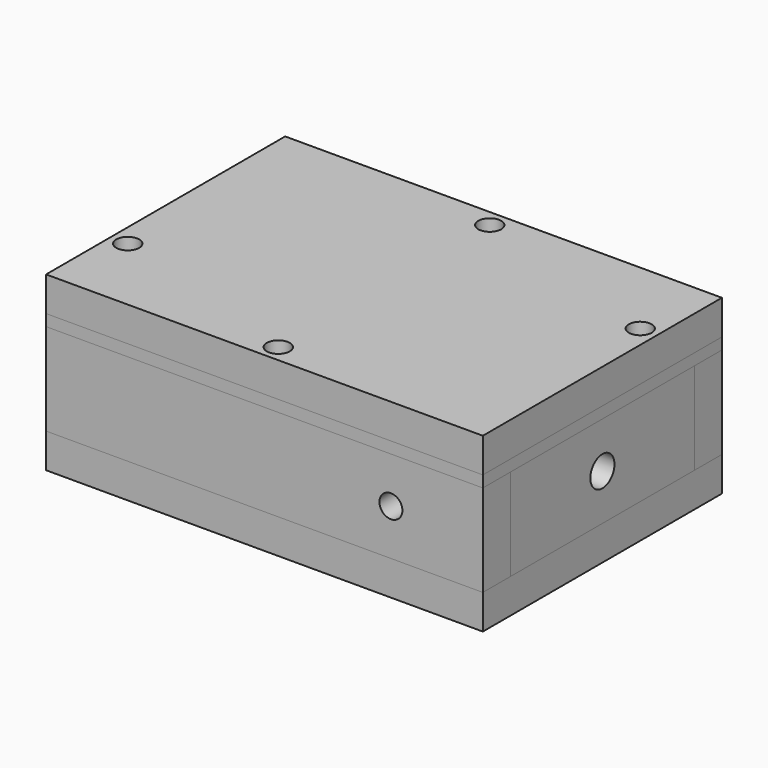
from build123d import *

# Parameters (mm, degrees)
F10_W     = 120.65
F10_H     = 82.55
F11_DEPTH = 9.525
F6_W      = 63.5
F6_H      = 25.4
F6_R      = 4.1671875
F12_DEPTH = 9.525
F8_W      = 120.65
F8_H      = 25.4
F8_R      = 3.175
F14_DEPTH = 9.525
F16_W     = 120.65
F16_H     = 82.55
F16_R     = 3.175
F17_DEPTH = 3.175
F19_DEPTH = 1.5875
F20_W     = 120.65
F20_H     = 82.55
F20_R     = 3.175
F21_DEPTH = 9.525
F22_R     = 3.175
F23_DEPTH = 19.05
F24_R     = 3.175
F25_DEPTH = 19.05
F26_R     = 3.175
F27_DEPTH = 19.05
F28_R     = 3.175
F29_DEPTH = 19.05


with BuildPart() as f11:
    # F10 (on offset) → F11 (new body)
    with BuildSketch(Plane.XY.offset(-12.7)):
        Rectangle(F10_W, F10_H)
    extrude(amount=-F11_DEPTH)


with BuildPart() as f12:
    # F6 (on offset) → F12 (new body)
    with BuildSketch(Plane.YZ.offset(-50.8)):
        Rectangle(F6_W, F6_H)
        Circle(F6_R, mode=Mode.SUBTRACT)
    extrude(amount=-F12_DEPTH)


with BuildPart() as f13_1:
    # F13: instance of F12
    add(f12.part.mirror(Plane.YZ))

    # F26 (on offset) → F27 (cut)
    with BuildSketch(Plane.XY.offset(12.7)):
        with Locations((55.5498, 19.05)):
            Circle(F26_R)
    extrude(amount=-F27_DEPTH, mode=Mode.SUBTRACT)


with BuildPart() as f14:
    # F8 (on offset) → F14 (new body)
    with BuildSketch(Plane.XZ.offset(31.75)):
        Rectangle(F8_W, F8_H)
        with Locations((34.925, 0)):
            Circle(F8_R, mode=Mode.SUBTRACT)
    extrude(amount=F14_DEPTH)


with BuildPart() as f15_1:
    # F15: instance of F14
    add(f14.part.mirror(Plane.XZ))

    # F28 (on offset) → F29 (cut)
    with BuildSketch(Plane.XY.offset(12.7)):
        with Locations((0, 36.5125)):
            Circle(F28_R)
    extrude(amount=-F29_DEPTH, mode=Mode.SUBTRACT)


with BuildPart() as f17:
    # F16 (on offset) → F17 (new body)
    with BuildSketch(Plane.XY.offset(12.7)):
        Rectangle(F16_W, F16_H)
        with Locations((-55.5498, -19.05)):
            Circle(F16_R, mode=Mode.SUBTRACT)
        with Locations((0, -36.5125)):
            Circle(F16_R, mode=Mode.SUBTRACT)
        with BuildLine():
            Line((-44.45, -19.05), (-44.45, 19.05))
            ThreePointArc((-44.45, 19.05), (-42.5901280605, 23.5401280605), (-38.1, 25.4))
            Line((-38.1, 25.4), (38.1, 25.4))
            ThreePointArc((38.1, 25.4), (42.5901280605, 23.5401280605), (44.45, 19.05))
            Line((44.45, 19.05), (44.45, -19.05))
            ThreePointArc((44.45, -19.05), (42.5901280605, -23.5401280605), (38.1, -25.4))
            Line((38.1, -25.4), (-38.1, -25.4))
            ThreePointArc((-38.1, -25.4), (-42.5901280605, -23.5401280605), (-44.45, -19.05))
        make_face(mode=Mode.SUBTRACT)
        with Locations((55.5498, 19.05)):
            Circle(F16_R, mode=Mode.SUBTRACT)
        with Locations((0, 36.5125)):
            Circle(F16_R, mode=Mode.SUBTRACT)
    extrude(amount=F17_DEPTH)

    # F18 (on offset) → F19 (cut)
    with BuildSketch(Plane.XY.offset(15.875)):
        with BuildLine():
            Line((41.275, 31.75), (-41.275, 31.75))
            ThreePointArc((-41.275, 31.75), (-48.0101920908, 28.9601920908), (-50.8, 22.225))
            Line((-50.8, 22.225), (-50.8, -22.225))
            ThreePointArc((-50.8, -22.225), (-48.0101920908, -28.9601920908), (-41.275, -31.75))
            Line((-41.275, -31.75), (41.275, -31.75))
            ThreePointArc((41.275, -31.75), (48.0101920908, -28.9601920908), (50.8, -22.225))
            Line((50.8, -22.225), (50.8, 22.225))
            ThreePointArc((50.8, 22.225), (48.0101920908, 28.9601920908), (41.275, 31.75))
        make_face()
        with BuildLine():
            ThreePointArc((-47.625, 22.225), (-45.7651280605, 26.7151280605), (-41.275, 28.575))
            Line((-41.275, 28.575), (41.275, 28.575))
            ThreePointArc((41.275, 28.575), (45.7651280605, 26.7151280605), (47.625, 22.225))
            Line((47.625, 22.225), (47.625, -22.225))
            ThreePointArc((47.625, -22.225), (45.7651280605, -26.7151280605), (41.275, -28.575))
            Line((41.275, -28.575), (-41.275, -28.575))
            ThreePointArc((-41.275, -28.575), (-45.7651280605, -26.7151280605), (-47.625, -22.225))
            Line((-47.625, -22.225), (-47.625, 22.225))
        make_face(mode=Mode.SUBTRACT)
    extrude(amount=-F19_DEPTH, mode=Mode.SUBTRACT)


with BuildPart() as f21:
    # F20 (on offset) → F21 (new body)
    with BuildSketch(Plane.XY.offset(15.875)):
        Rectangle(F20_W, F20_H)
        with Locations((-55.5498, -19.05)):
            Circle(F20_R, mode=Mode.SUBTRACT)
        with Locations((0, -36.5125)):
            Circle(F20_R, mode=Mode.SUBTRACT)
        with Locations((55.5498, 19.05)):
            Circle(F20_R, mode=Mode.SUBTRACT)
        with Locations((0, 36.5125)):
            Circle(F20_R, mode=Mode.SUBTRACT)
    extrude(amount=F21_DEPTH)


with BuildPart() as f12_1:
    add(f12.part)

    # F22 (on offset) → F23 (cut)
    with BuildSketch(Plane.XY.offset(12.7)):
        with Locations((-55.5498, -19.05)):
            Circle(F22_R)
    extrude(amount=-F23_DEPTH, mode=Mode.SUBTRACT)


with BuildPart() as f14_1:
    add(f14.part)

    # F24 (on offset) → F25 (cut)
    with BuildSketch(Plane.XY.offset(12.7)):
        with Locations((0, -36.5125)):
            Circle(F24_R)
    extrude(amount=-F25_DEPTH, mode=Mode.SUBTRACT)


solid = Compound([f11.part, f13_1.part, f15_1.part, f17.part, f21.part, f12_1.part, f14_1.part])
